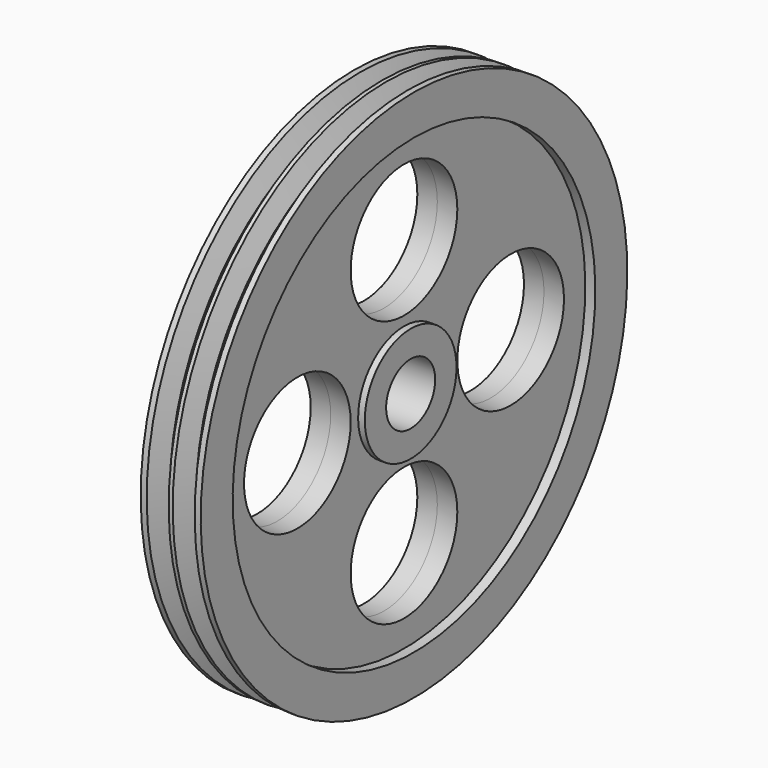
from build123d import *

# Parameters (mm, degrees)
F2_R          = 50
F3_DEPTH      = 50
F3_DEPTH_BACK = 50


with BuildPart() as f1:
    # F0 (on Front) → F1 (revolve)
    with BuildSketch(Plane.XZ):
        Polygon((-15, 170), (0, 170), (15, 170), (22.5, 170), (22.5, 200), (18, 200), (12.688221412, 185), (6.811778588, 185), (1.5, 200), (0, 200), (-1.5, 200), (-6.811778588, 185), (-12.688221412, 185), (-18, 200), (-22.5, 200), (-22.5, 170), align=None)
        Polygon((15, 170), (0, 170), (-15, 170), (-15, 23), (20, 23), (20, 43), (15, 43), align=None)
    revolve(axis=Axis((-0.1413226128, 0, 0), (1, 0, 0)))

    # F2 (on Right) → F3 (cut, two sides)
    with BuildSketch(Plane.YZ) as f3_sk:
        with Locations((0, -100)):
            Circle(F2_R)
        with Locations((100, 0)):
            Circle(F2_R)
        with Locations((-100, 0)):
            Circle(F2_R)
        with Locations((0, 100)):
            Circle(F2_R)
    extrude(amount=-F3_DEPTH, mode=Mode.SUBTRACT)
    extrude(f3_sk.sketch, amount=F3_DEPTH_BACK, mode=Mode.SUBTRACT)


solid = f1.part
